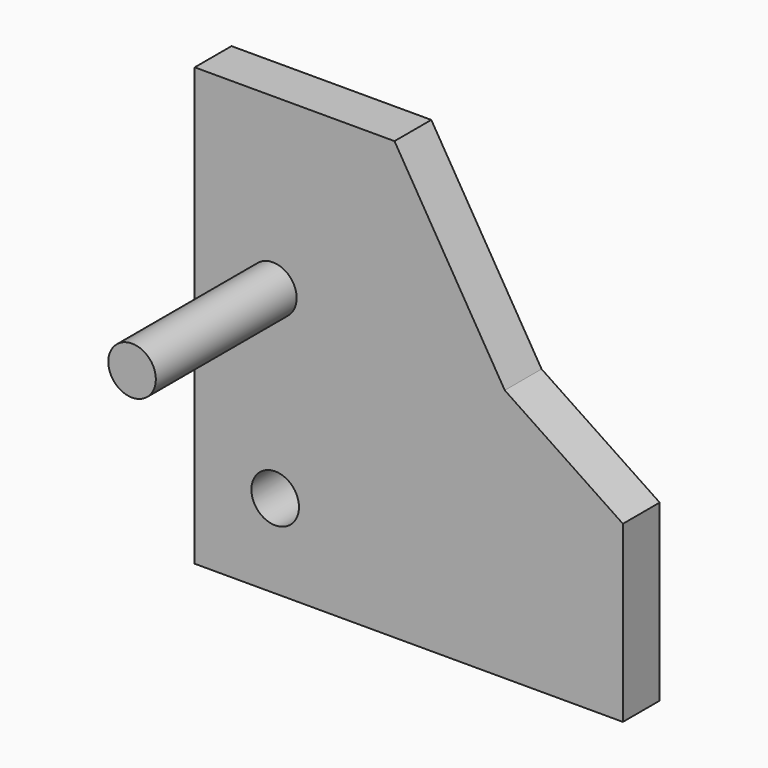
from build123d import *

# Parameters (mm, degrees)
F0_R     = 0.381
F1_DEPTH = 0.7366
F2_DEPTH = 3.556
F3_SCALE = 7.5


with BuildPart() as f1:
    # F0 (on Front) → F1 (new body)
    with BuildSketch(Plane.XZ):
        Polygon((-3.4709807732, 23.1845746487), (-6.6709807732, 23.1845746487), (-6.6709807732, 16.1845746487), (0.1870192268, 16.1845746487), (0.1870192268, 18.9785746487), (-1.704775727, 20.2454317916), align=None)
        with Locations((-5.3821913898, 17.5259150565)):
            Circle(F0_R, mode=Mode.SUBTRACT)
        with Locations((-5.4190722294, 20.4617753625)):
            Circle(F0_R, mode=Mode.SUBTRACT)
    extrude(amount=F1_DEPTH)

    # F0 (on Front) → F2 (join)
    with BuildSketch(Plane.XZ):
        with Locations((-5.4190722294, 20.4617753625)):
            Circle(F0_R)
    extrude(amount=F2_DEPTH)


with BuildPart() as f1_1:
    # F3: moved
    add(f1.part.scale(F3_SCALE))


solid = f1_1.part
